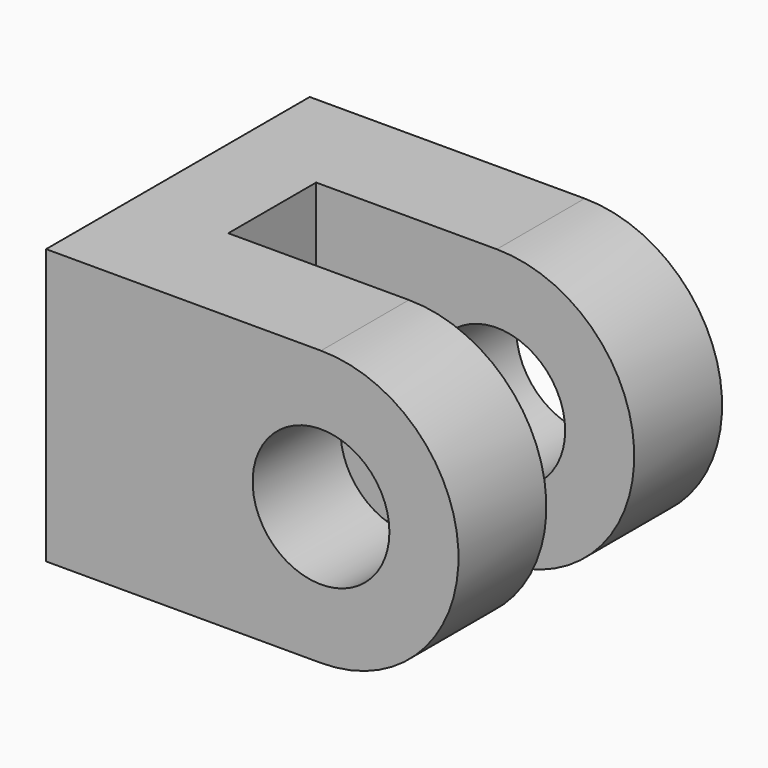
from build123d import *

# Parameters (mm, degrees)
F0_R     = 12.446
F1_DEPTH = 19.9898
F3_R     = 12.446
F4_DEPTH = 19.9898
F5_W     = 17.1654498105
F5_H     = 50.038
F6_DEPTH = 19.9898
F8_DEPTH = 75.058


with BuildPart() as f1:
    # F0 (on Front) → F1 (new body)
    with BuildSketch(Plane.XZ):
        with BuildLine():
            Line((-50.038, -25.019), (0, -25.019))
            ThreePointArc((0, -25.019), (25.019, 0), (0, 25.019))
            Line((0, 25.019), (-50.038, 25.019))
            Line((-50.038, 25.019), (-50.038, -25.019))
        make_face()
        Circle(F0_R, mode=Mode.SUBTRACT)
    extrude(amount=F1_DEPTH)



with BuildPart() as f4:
    # F3 (on offset) → F4 (new body)
    with BuildSketch(Plane.XZ.offset(39.9796)):
        with BuildLine():
            Line((-50.038, 25.019), (-50.038, -25.019))
            Line((-50.038, -25.019), (0, -25.019))
            ThreePointArc((0, -25.019), (25.019, 0), (0, 25.019))
            Line((0, 25.019), (-50.038, 25.019))
        make_face()
        Circle(F3_R, mode=Mode.SUBTRACT)
    extrude(amount=F4_DEPTH)


with BuildPart() as f1_1:
    add(f1.part)

    add(f4.part)  # F6 merges F4
    # F5 (on face) → F6 (join, through all)
    with BuildSketch(Plane.XZ.offset(19.9898)):
        with Locations((-41.4552750947, 0)):
            Rectangle(F5_W, F5_H)
    extrude(amount=F6_DEPTH)

    # F7 (on face) → F8 (cut, through all)
    with BuildSketch(Plane(origin=(-50.038, 0, 0), x_dir=(0, -1, 0), z_dir=(-1, 0, 0))):
        with BuildLine():
            ThreePointArc((29.9847, -2.54), (31.7807512242, -1.7960512242), (32.5247, 0))
            ThreePointArc((32.5247, 0), (31.7807512242, 1.7960512242), (29.9847, 2.54))
            ThreePointArc((29.9847, 2.54), (28.1886487758, 1.7960512242), (27.4447, 0))
            ThreePointArc((27.4447, 0), (28.1886487758, -1.7960512242), (29.9847, -2.54))
        make_face()
    extrude(amount=-F8_DEPTH, mode=Mode.SUBTRACT)


solid = f1_1.part
